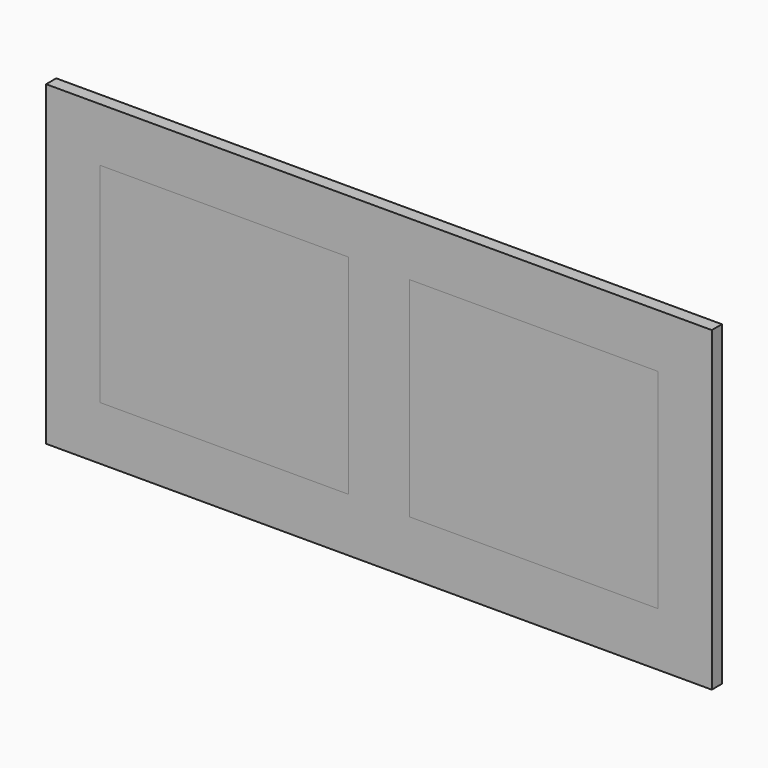
from build123d import *

# Parameters (mm, degrees)
F0_W     = 1310
F0_H     = 623
F0_W_2   = 519
F0_H_2   = 441
F1_DEPTH = 25
F0_W_3   = 489
F0_H_3   = 411
F2_DEPTH = 24
F0_W_4   = 369
F0_H_4   = 291
F3_DEPTH = 22
F9_DEPTH = 18


with BuildPart() as f1:
    # F0 (on Front) → F1 (new body)
    with BuildSketch(Plane.XZ):
        with Locations((0, -311.5)):
            Rectangle(F0_W, F0_H)
        with Locations((-304.5, -311.5)):
            Rectangle(F0_W_2, F0_H_2, mode=Mode.SUBTRACT)
        with Locations((304.5, -311.5)):
            Rectangle(F0_W_2, F0_H_2, mode=Mode.SUBTRACT)
    extrude(amount=-F1_DEPTH)

    # F0 (on Front) → F2 (join)
    with BuildSketch(Plane.XZ):
        with Locations((304.5, -311.5)):
            Rectangle(F0_W_2, F0_H_2)
        with Locations((304.5, -311.5)):
            Rectangle(F0_W_3, F0_H_3, mode=Mode.SUBTRACT)
        with Locations((-304.5, -311.5)):
            Rectangle(F0_W_2, F0_H_2)
        with Locations((-304.5, -311.5)):
            Rectangle(F0_W_3, F0_H_3, mode=Mode.SUBTRACT)
    extrude(amount=-F2_DEPTH)

    # F0 (on Front) → F3 (cut)
    with BuildSketch(Plane.XZ):
        with Locations((304.5, -311.5)):
            Rectangle(F0_W_4, F0_H_4)
        with Locations((-304.5, -311.5)):
            Rectangle(F0_W_4, F0_H_4)
    extrude(amount=-F3_DEPTH, mode=Mode.SUBTRACT)


with BuildPart() as f8:
    # F8: sweep along a path in F0
    with BuildLine(Plane.XZ) as f8_path:
        Line((489, -166), (489, -457))
        Line((489, -457), (120, -457))
        Line((120, -457), (120, -166))
        Line((120, -166), (489, -166))
    # F7 (on mid) → F8 (sweep)
    with BuildSketch(Plane(origin=(0, 0, -311.5), x_dir=(1, 0, 0), z_dir=(0, 0, -1))):
        Polygon((489, -12), (549, 0), (489, 0), align=None)
    sweep(path=f8_path.line, transition=Transition.RIGHT)

    # F0 (on Front) → F9 (join)
    with BuildSketch(Plane.XZ):
        with Locations((304.5, -311.5)):
            Rectangle(F0_W_4, F0_H_4)
    extrude(amount=-F9_DEPTH)


with BuildPart() as f10_1:
    # F10: copy of F8
    add(f8.part.moved(Location((-609, 0, 0))))


solid = Compound([f1.part, f8.part, f10_1.part])
